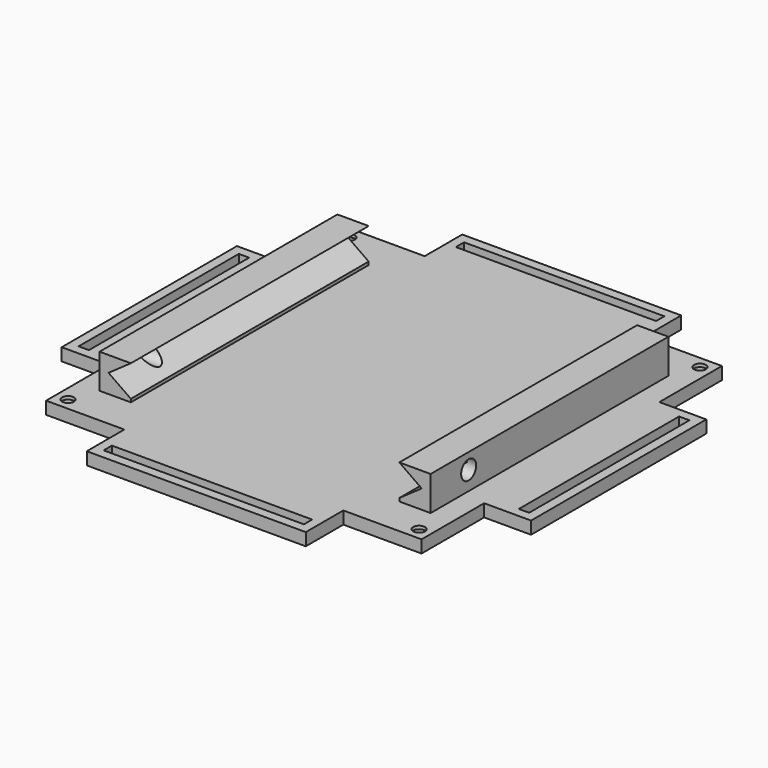
from build123d import *

# Parameters (mm, degrees)
SKETCH082_W     = 150
SKETCH082_H     = 150
PAD021_DEPTH    = 4
POCKET052_DEPTH = 4.001
SKETCH002_R     = 1.9
SKETCH002_W     = 3.3
SKETCH002_H     = 64
SKETCH002_W_2   = 64
SKETCH002_H_2   = 3.3
POCKET001_DEPTH = 5
SKETCH003_R     = 2.95
POCKET002_DEPTH = 3
SKETCH004_W     = 10
SKETCH004_H     = 95
PAD001_DEPTH    = 11
POCKET003_DEPTH = 122.501
SKETCH006_R     = 3
POCKET004_DEPTH = 127.901


with BuildPart() as part:
    # Sketch082 → Pad021 (new body)
    with BuildSketch(Plane.XY):
        with Locations((75, 75)):
            Rectangle(SKETCH082_W, SKETCH082_H)
    extrude(amount=PAD021_DEPTH)

    # Sketch001 (on Face6 of Pad021) → Pocket052 (cut, through all)
    with BuildSketch(Plane.XY.offset(4)):
        Polygon((0, 110), (15, 110), (15, 135), (40, 135), (40, 150), (0, 150), align=None)
        Polygon((0, 40), (15, 40), (15, 15), (40, 15), (40, 0), (0, 0), align=None)
        Polygon((110, 150), (110, 135), (135, 135), (135, 110), (150, 110), (150, 150), align=None)
        Polygon((150, 40), (135, 40), (135, 15), (110, 15), (110, 0), (150, 0), align=None)
    extrude(amount=-POCKET052_DEPTH, mode=Mode.SUBTRACT)

    # Sketch002 (on Face4 of Pocket052) → Pocket001 (cut)
    with BuildSketch(Plane.XY.offset(4)):
        with Locations((18.9, 131.1)):
            Circle(SKETCH002_R)
        with Locations((131.1, 131.1)):
            Circle(SKETCH002_R)
        with Locations((131.1, 18.9)):
            Circle(SKETCH002_R)
        with Locations((18.9, 18.9)):
            Circle(SKETCH002_R)
        with Locations((4.65, 75)):
            Rectangle(SKETCH002_W, SKETCH002_H)
        with Locations((75, 145.35)):
            Rectangle(SKETCH002_W_2, SKETCH002_H_2)
        with Locations((145.35, 75)):
            Rectangle(SKETCH002_W, SKETCH002_H)
        with Locations((75, 4.65)):
            Rectangle(SKETCH002_W_2, SKETCH002_H_2)
    extrude(amount=-POCKET001_DEPTH, mode=Mode.SUBTRACT)

    # Sketch003 (on Face2 of Pocket001) → Pocket002 (cut)
    with BuildSketch(Plane(origin=(0, 0, 0), x_dir=(1, 0, 0), z_dir=(0, 0, -1))):
        with Locations((18.9, -131.1)):
            Circle(SKETCH003_R)
        with Locations((18.9, -18.9)):
            Circle(SKETCH003_R)
        with Locations((131.1, -18.9)):
            Circle(SKETCH003_R)
        with Locations((131.1, -131.1)):
            Circle(SKETCH003_R)
    extrude(amount=-POCKET002_DEPTH, mode=Mode.SUBTRACT)

    # Sketch004 (on Face4 of Pocket002) → Pad001 (join)
    with BuildSketch(Plane.XY.offset(4)):
        with Locations((27.1, 75)):
            Rectangle(SKETCH004_W, SKETCH004_H)
        with Locations((122.9, 75)):
            Rectangle(SKETCH004_W, SKETCH004_H)
    extrude(amount=PAD001_DEPTH)

    # Sketch005 (on Face52 of Pad001) → Pocket003 (cut, through all)
    with BuildSketch(Plane.XZ.offset(-27.5)):
        Polygon((24.96, 10), (32.1, 15), (32.1, 5), align=None)
        Polygon((117.9, 5), (125.04, 10), (117.9, 15), align=None)
    extrude(amount=-POCKET003_DEPTH, mode=Mode.SUBTRACT)

    # Sketch006 (on Face53 of Pocket003) → Pocket004 (cut, through all)
    with BuildSketch(Plane(origin=(22.1, 0, 0), x_dir=(0, -1, 0), z_dir=(-1, 0, 0))):
        with Locations((-42.7, 10)):
            Circle(SKETCH006_R)
    extrude(amount=-POCKET004_DEPTH, mode=Mode.SUBTRACT)


with BuildPart() as part_1:
    # Body013 placement: moved
    add(part.part.moved(Location((0, 0, -48))))


solid = part_1.part
